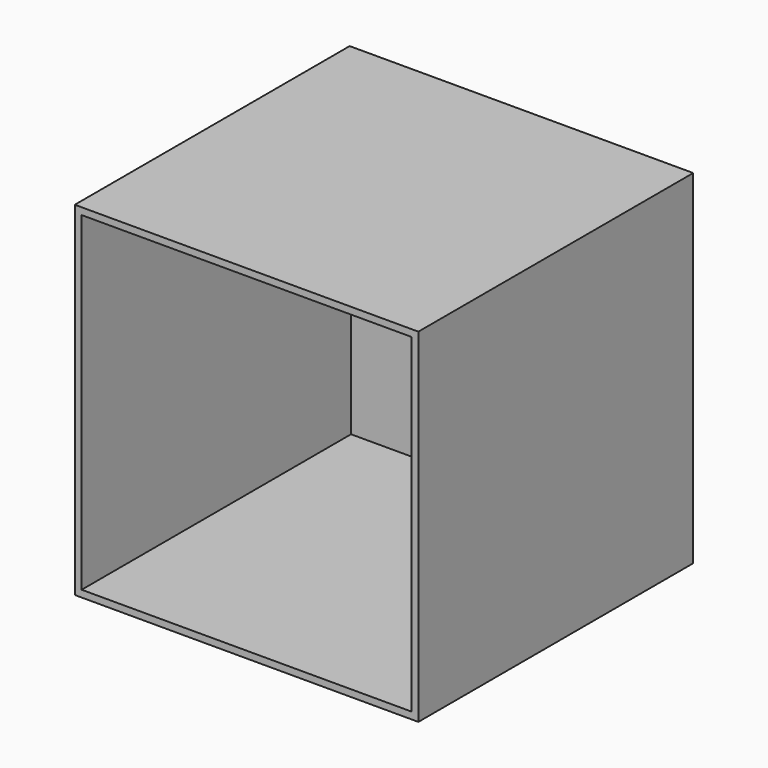
from build123d import *

# Parameters (mm, degrees)
F0_W     = 96
F0_H     = 96
F1_DEPTH = 2
F0_W_2   = 100
F0_H_2   = 100
F2_DEPTH = 100


with BuildPart() as f1:
    # F0 (on Front) → F1 (new body)
    with BuildSketch(Plane.XZ):
        Rectangle(F0_W, F0_H)
    extrude(amount=F1_DEPTH)

    # F0 (on Front) → F2 (join)
    with BuildSketch(Plane.XZ):
        Rectangle(F0_W_2, F0_H_2)
        Rectangle(F0_W, F0_H, mode=Mode.SUBTRACT)
    extrude(amount=F2_DEPTH)


solid = f1.part
